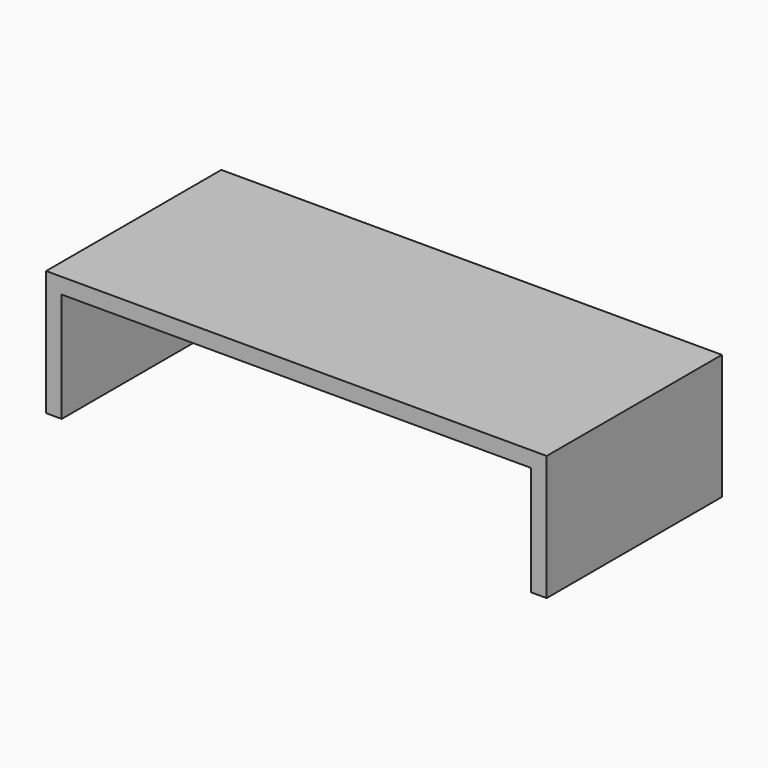
from build123d import *

# Parameters (mm, degrees)
F0_W     = 1600
F0_H     = 700
F1_DEPTH = 400
F2_T     = -50


with BuildPart() as f1:
    # F0 (on Top) → F1 (new body)
    with BuildSketch(Plane.XY):
        Rectangle(F0_W, F0_H)
    extrude(amount=F1_DEPTH)

    # F2
    f2_openings = [f1.faces().sort_by_distance(p)[0] for p in [
        (0, 0, 0),
        (0, -350, 200),
        (0, 350, 200),
    ]]
    offset(amount=F2_T, openings=f2_openings)


solid = f1.part
